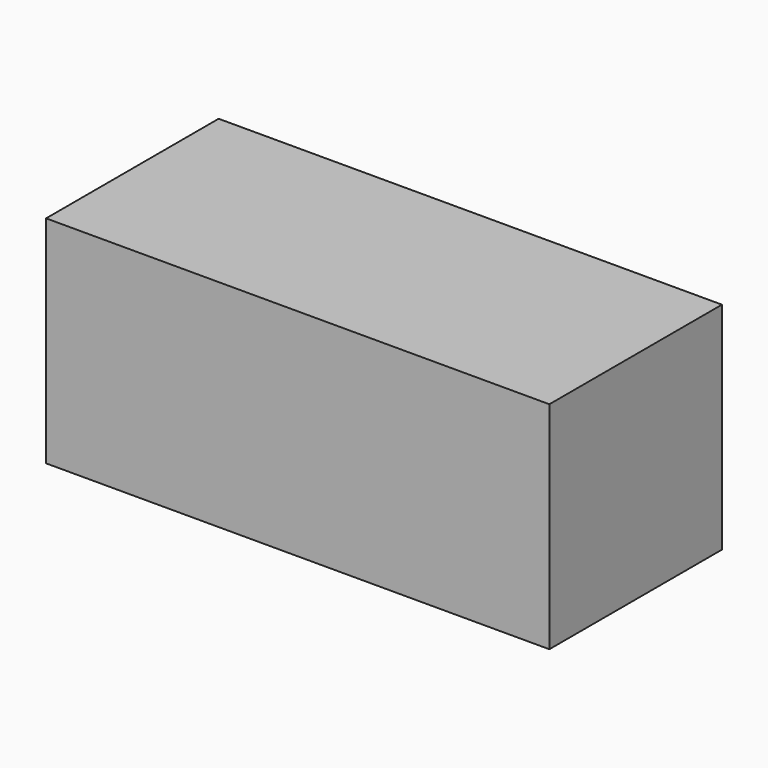
from build123d import *

# Parameters (mm, degrees)
F0_W     = 140
F0_H     = 60
F1_DEPTH = 60
F2_R     = 10.080866
F3_DEPTH = 18


with BuildPart() as f1:
    # F0 (on Top) → F1 (new body)
    with BuildSketch(Plane.XY):
        Rectangle(F0_W, F0_H)
    extrude(amount=F1_DEPTH)

    # F2 (on face) → F3 (cut)
    with BuildSketch(Plane.XY.offset(60)):
        Circle(F2_R)
    extrude(amount=F3_DEPTH, mode=Mode.SUBTRACT)


solid = f1.part
